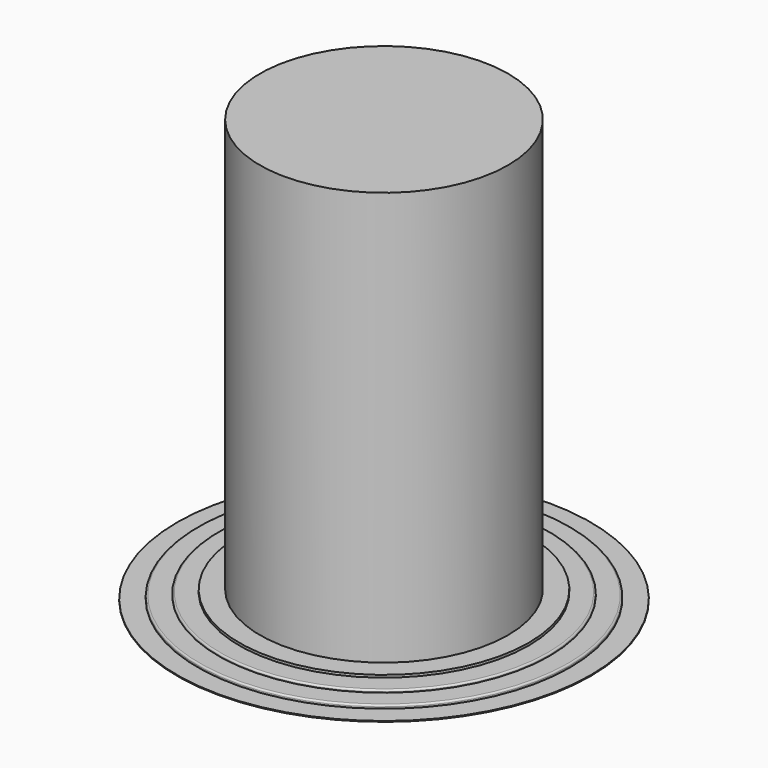
from build123d import *

# Parameters (mm, degrees)
F0_R      = 635
F1_DEPTH  = 2.54
F2_R      = 571.5
F3_DEPTH  = 10.16
F4_R      = 5.08
F5_R      = 508
F6_DEPTH  = 7.62
F7_R      = 5.08
F8_R      = 444.5
F9_DEPTH  = 7.62
F10_R     = 381
F11_DEPTH = 1270


with BuildPart() as f1:
    # F0 (on Top) → F1 (new body)
    with BuildSketch(Plane.XY):
        Circle(F0_R)
    extrude(amount=F1_DEPTH)

    # F2 (on face) → F3 (join)
    with BuildSketch(Plane.XY.offset(2.54)):
        Circle(F2_R)
    extrude(amount=F3_DEPTH)

    # F4
    f4_edges = [f1.edges().sort_by_distance(p)[0] for p in [
        (-571.5, 0, 12.7),
    ]]
    fillet(f4_edges, radius=F4_R)

    # F5 (on face) → F6 (join)
    with BuildSketch(Plane.XY.offset(12.7)):
        Circle(F5_R)
    extrude(amount=F6_DEPTH)

    # F7
    f7_edges = [f1.edges().sort_by_distance(p)[0] for p in [
        (-508, 0, 20.32),
    ]]
    fillet(f7_edges, radius=F7_R)

    # F8 (on face) → F9 (join)
    with BuildSketch(Plane.XY.offset(20.32)):
        Circle(F8_R)
    extrude(amount=F9_DEPTH)


with BuildPart() as f11:
    # F10 (on face) → F11 (new body)
    with BuildSketch(Plane.XY.offset(27.94)):
        Circle(F10_R)
    extrude(amount=F11_DEPTH)


solid = Compound([f1.part, f11.part])
